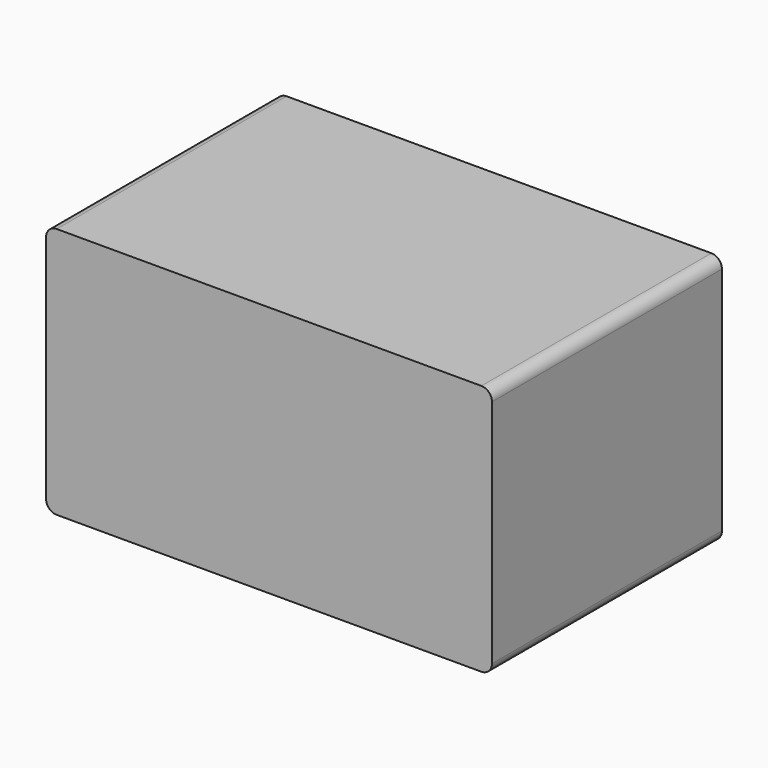
from build123d import *

# Parameters (mm, degrees)
F0_W     = 213.559113
F0_H     = 120.52422
F1_DEPTH = 137.668
F2_R     = 5.08


with BuildPart() as f1:
    # F0 (on Front) → F1 (new body)
    with BuildSketch(Plane.XZ):
        with Locations((-5.628954, -10.835957)):
            Rectangle(F0_W, F0_H)
    extrude(amount=-F1_DEPTH)

    # F2
    f2_edges = [f1.edges().sort_by_distance(p)[0] for p in [
        (101.150602, 68.834, 49.426153),
        (101.150602, 68.834, -71.098067),
        (-112.408511, 68.834, 49.426153),
        (-112.408511, 68.834, -71.098067),
    ]]
    fillet(f2_edges, radius=F2_R)


solid = f1.part
